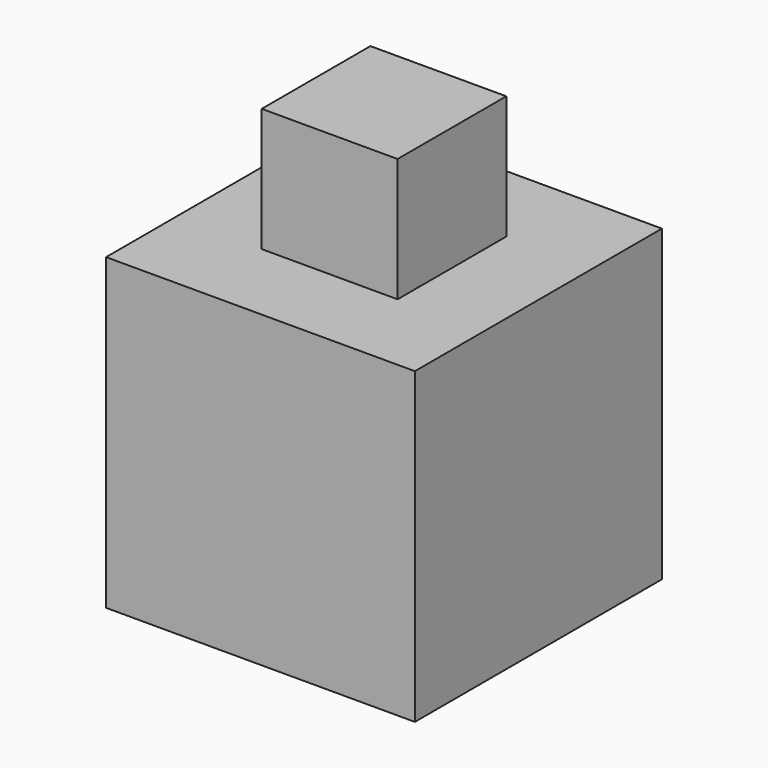
from build123d import *

# Parameters (mm, degrees)
BOX_W     = 10
BOX_H     = 10
BOX_DEPTH = 10
SKETCH_W  = 4.4
SKETCH_H  = 4.4
PAD_DEPTH = 4


with BuildPart() as part:
    # Box → Box (new body)
    with BuildSketch(Plane.XY):
        with Locations((5, 5)):
            Rectangle(BOX_W, BOX_H)
    extrude(amount=BOX_DEPTH)

    # Sketch (on Face6 of BaseFeature) → Pad (new body)
    with BuildSketch(Plane.XY.offset(10)):
        with Locations((5, 5)):
            Rectangle(SKETCH_W, SKETCH_H)
    extrude(amount=PAD_DEPTH)


solid = part.part
